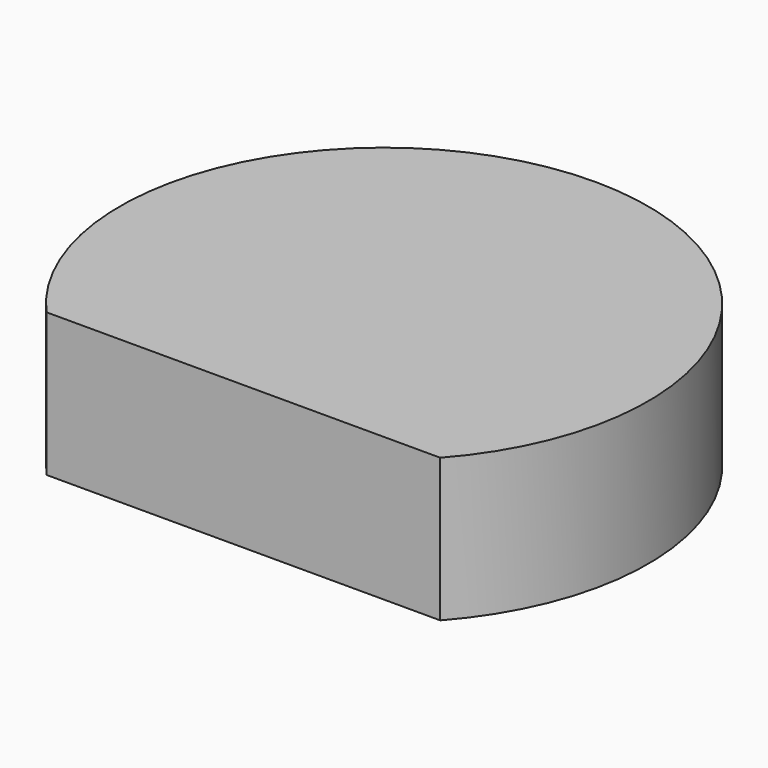
from build123d import *

# Parameters (mm, degrees)
PAD_DEPTH = 1.6


with BuildPart() as part:
    # Sketch → Pad (new body)
    with BuildSketch(Plane.XY):
        with BuildLine():
            ThreePointArc((2.2, -1.965324), (0, 2.95), (-2.2, -1.965324))
            Line((-2.2, -1.965324), (2.2, -1.965324))
        make_face()
    extrude(amount=PAD_DEPTH)


solid = part.part
